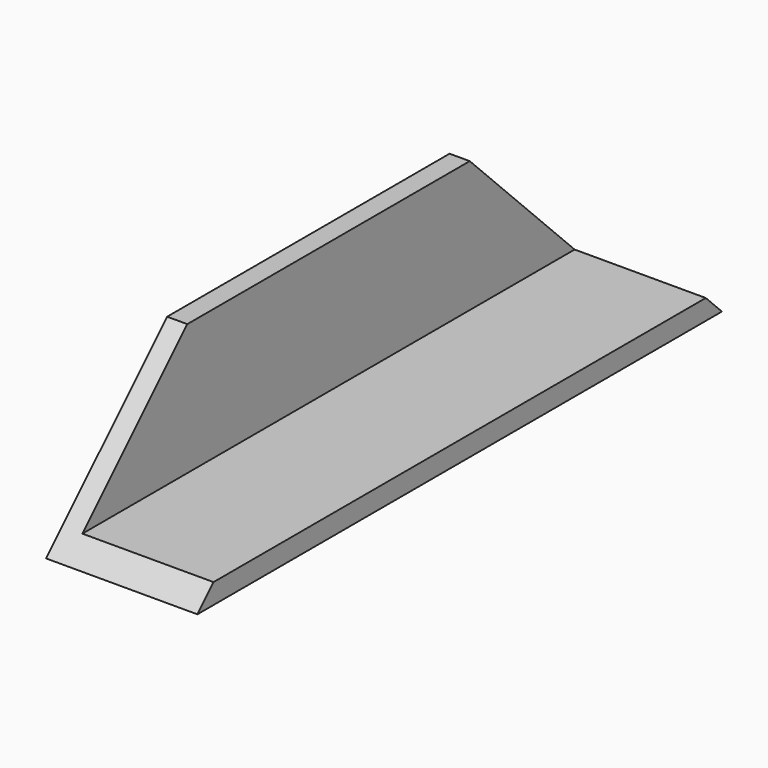
from build123d import *

# Parameters (mm, degrees)
F1_DEPTH = 130
F3_DEPTH = 50


with BuildPart() as f1:
    # F0 (on Front) → F1 (new body)
    with BuildSketch(Plane.XZ):
        Polygon((0, 30), (0, 0), (30, 0), (30, 4), (4, 4), (4, 30), align=None)
    extrude(amount=F1_DEPTH)

    # F2 (on face) → F3 (cut)
    with BuildSketch(Plane(origin=(0, 0, 0), x_dir=(0, -1, 0), z_dir=(-1, 0, 0))):
        Polygon((0, 30), (0, 0), (30, 30), align=None)
        Polygon((100, 30), (130, 0), (130, 30), align=None)
    extrude(amount=-F3_DEPTH, mode=Mode.SUBTRACT)


solid = f1.part
